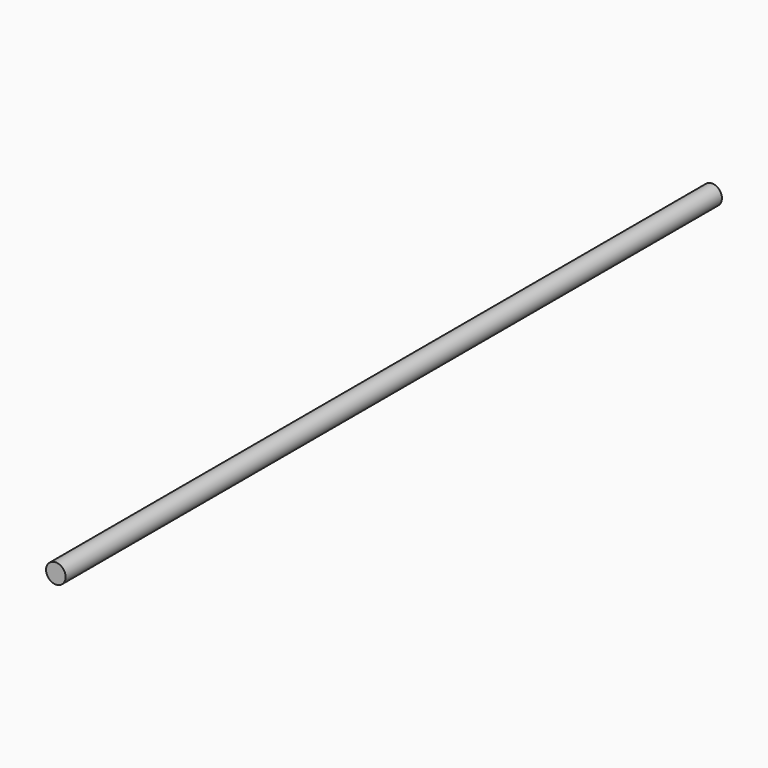
from build123d import *

# Parameters (mm, degrees)
F0_R     = 12.7
F1_DEPTH = 1066.8
F2_R     = 7.9375
F3_DEPTH = 25.4


with BuildPart() as f1:
    # F0 (on Front) → F1 (new body)
    with BuildSketch(Plane.XZ):
        Circle(F0_R)
    extrude(amount=F1_DEPTH)

    # F2 (on Right) → F3 (cut)
    with BuildSketch(Plane.YZ):
        with Locations((-406.4, 0)):
            Circle(F2_R)
        with Locations((-685.8, 0)):
            Circle(F2_R)
        with Locations((-965.2, 0)):
            Circle(F2_R)
        with Locations((-127, 0)):
            Circle(F2_R)
    extrude(amount=-F3_DEPTH, mode=Mode.SUBTRACT)


solid = f1.part
